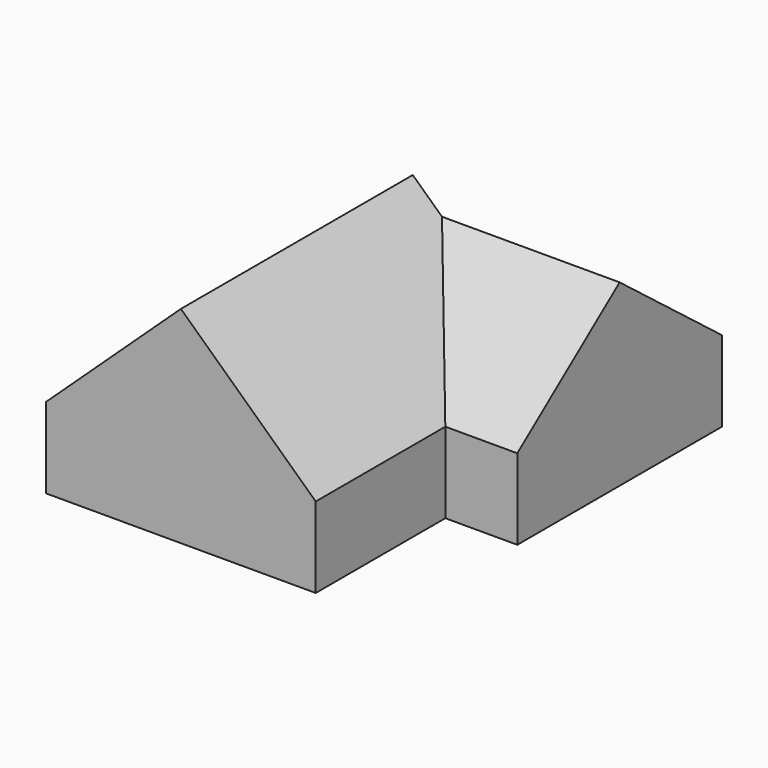
from build123d import *

# Parameters (mm, degrees)
F0_W     = 150.2881843598
F0_H     = 44.9218228459
F1_DEPTH = 161.5533232689
F4_W     = 142.53911376
F4_H     = 44.9218228459
F5_DEPTH = 98.8252237439


with BuildPart() as f1:
    # F0 (on Front) → F1 (new body)
    with BuildSketch(Plane.XZ):
        with Locations((75.1440921799, 22.460911423)):
            Rectangle(F0_W, F0_H)
        Polygon((75.1440921799, 114.9948224378), (0, 44.9218228459), (150.2881843598, 44.9218228459), align=None)
    extrude(amount=F1_DEPTH)

    # F4 (on offset) → F5 (join)
    with BuildSketch(Plane.YZ.offset(190.4235333204)):
        with Locations((0, 22.460911423)):
            Rectangle(F4_W, F4_H)
        Polygon((-71.26955688, 44.9218228459), (71.26955688, 44.9218228459), (0, 99.8137295246), align=None)
    extrude(amount=-F5_DEPTH)


solid = f1.part
